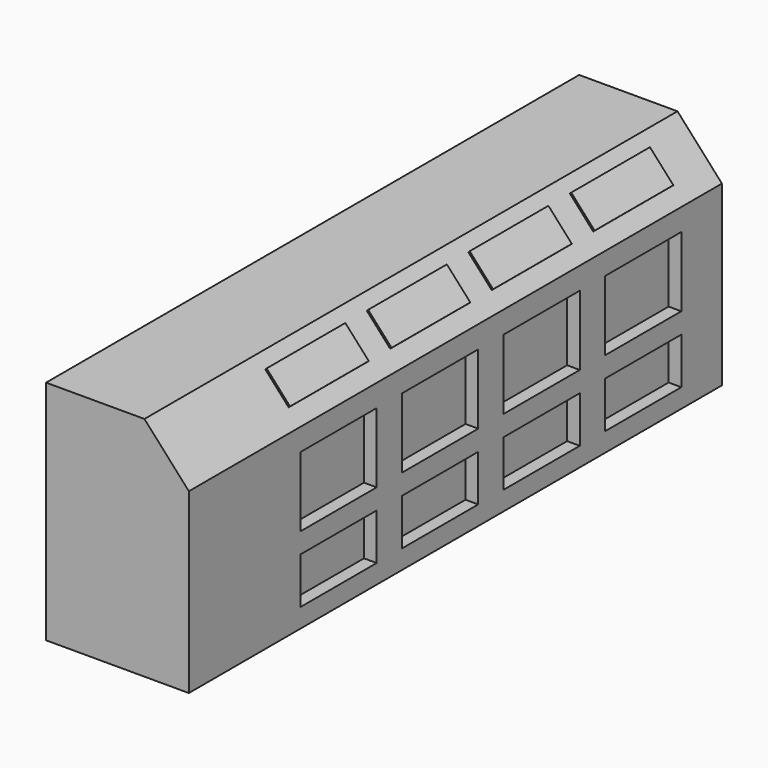
from build123d import *

# Parameters (mm, degrees)
PAD002_DEPTH  = 105
SKETCH003_W   = 5.5
SKETCH003_H   = 15.5
PAD003_DEPTH  = 0.3
SKETCH010_W   = 7.3
SKETCH010_H   = 15
SKETCH010_W_2 = 11
POCKET_DEPTH  = 2


with BuildPart() as part:
    # Sketch002 → Pad002 (new body)
    with BuildSketch(Plane.XZ):
        Polygon((0, 35.75), (15.5, 35.75), (22.5, 28), (22.5, 0), (0, 0), align=None)
    extrude(amount=-PAD002_DEPTH)

    # Sketch003 (on Face2 of Pad002) → Pad003 (join)
    with BuildSketch(Plane(origin=(26.3189111748, 0, 23.7719197708), x_dir=(-0.670286258, 0, 0.7421026428), z_dir=(0.7421026428, 0, 0.670286258))):
        with Locations((11.25, -29.75)):
            Rectangle(SKETCH003_W, SKETCH003_H)
        with Locations((11.25, -49.75)):
            Rectangle(SKETCH003_W, SKETCH003_H)
        with Locations((11.25, -69.75)):
            Rectangle(SKETCH003_W, SKETCH003_H)
        with Locations((11.25, -89.75)):
            Rectangle(SKETCH003_W, SKETCH003_H)
    extrude(amount=PAD003_DEPTH)

    # Sketch010 (on Face3 of Pad002) → Pocket (cut)
    with BuildSketch(Plane(origin=(22.5, 0, 0), x_dir=(0, 0, 1), z_dir=(1, 0, 0))):
        with Locations((6.65, -29.5)):
            Rectangle(SKETCH010_W, SKETCH010_H)
        with Locations((6.65, -49.5)):
            Rectangle(SKETCH010_W, SKETCH010_H)
        with Locations((6.65, -69.5)):
            Rectangle(SKETCH010_W, SKETCH010_H)
        with Locations((6.65, -89.5)):
            Rectangle(SKETCH010_W, SKETCH010_H)
        with Locations((19, -29.5)):
            Rectangle(SKETCH010_W_2, SKETCH010_H)
        with Locations((19.0116166835, -49.4999966263)):
            Rectangle(SKETCH010_W_2, SKETCH010_H)
        with Locations((19.023233367, -69.4999932526)):
            Rectangle(SKETCH010_W_2, SKETCH010_H)
        with Locations((19.0348500505, -89.4999898789)):
            Rectangle(SKETCH010_W_2, SKETCH010_H)
    extrude(amount=-POCKET_DEPTH, mode=Mode.SUBTRACT)


solid = part.part
